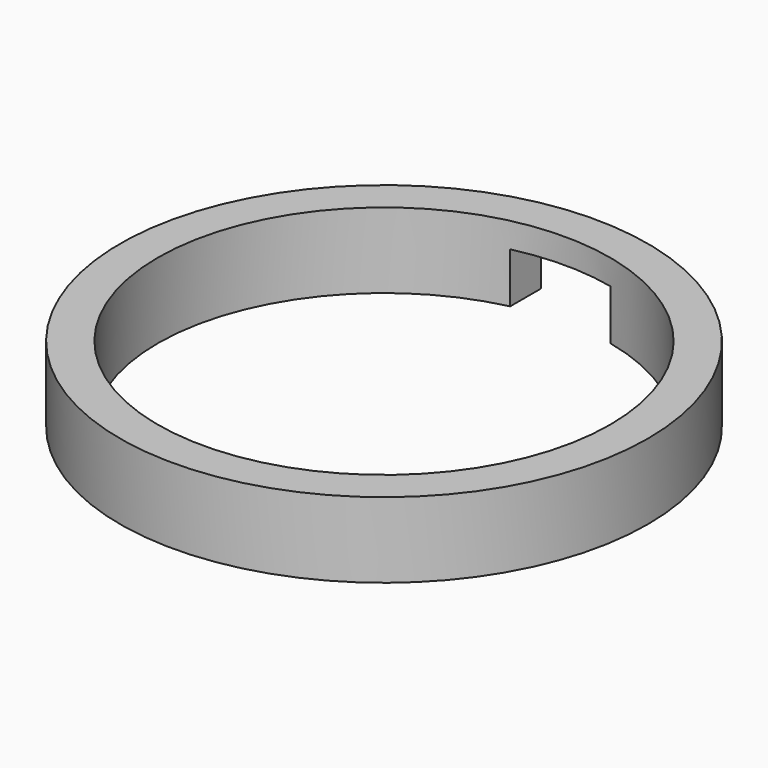
from build123d import *

# Parameters (mm, degrees)
SKETCH_R     = 21
SKETCH_R_2   = 18
PAD_DEPTH    = 6
SKETCH001_W  = 8
SKETCH001_H  = 10
POCKET_DEPTH = 4


with BuildPart() as part:
    # Sketch → Pad (new body)
    with BuildSketch(Plane.XY):
        Circle(SKETCH_R)
        Circle(SKETCH_R_2, mode=Mode.SUBTRACT)
    extrude(amount=PAD_DEPTH)

    # Sketch001 (on Face3 of Pad) → Pocket (cut)
    with BuildSketch(Plane(origin=(0, 0, 0), x_dir=(1, 0, 0), z_dir=(0, 0, -1))):
        with Locations((0, -20)):
            Rectangle(SKETCH001_W, SKETCH001_H)
    extrude(amount=-POCKET_DEPTH, mode=Mode.SUBTRACT)


solid = part.part
